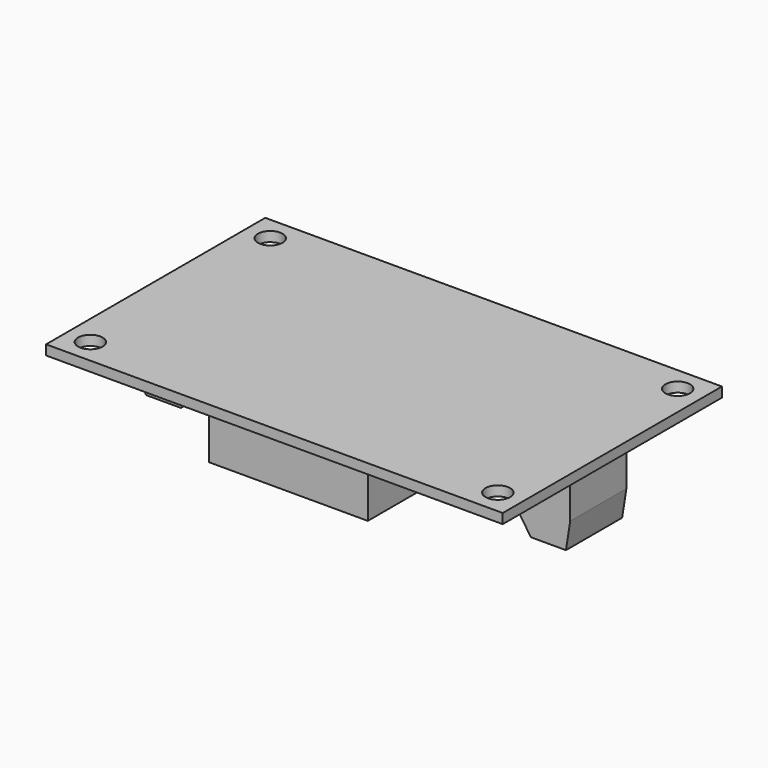
from build123d import *

# Parameters (mm, degrees)
SKETCH_W                = 65
SKETCH_H                = 39
PAD_DEPTH               = 1.4
SKETCH001_R             = 1.75
POCKET_DEPTH            = 153.031604
SKETCH001_MIRRORED_2_R  = 1.75
POCKET_MIRRORED_2_DEPTH = 153.031604
SKETCH002_W             = 7.6
SKETCH002_H             = 10
PAD001_DEPTH            = 10
POCKET001_DEPTH         = 5
SKETCH004_W             = 22.6
SKETCH004_H             = 14
PAD002_DEPTH            = 7.5
SKETCH005_R             = 4
PAD003_DEPTH            = 10
SKETCH006_W             = 12
SKETCH006_H             = 12
PAD004_DEPTH            = 7.5
SKETCH007_W             = 9.5
SKETCH007_H             = 4.4
PAD005_DEPTH            = 10
SKETCH008_W             = 10
SKETCH008_H             = 8.4
PAD006_DEPTH            = 4


with BuildPart() as part:
    # Sketch → Pad (new body)
    with BuildSketch(Plane.XY):
        Rectangle(SKETCH_W, SKETCH_H)
    extrude(amount=PAD_DEPTH)

    # Sketch001 → Pocket (cut, through all)
    with BuildSketch(Plane.XY):
        with Locations((29, 16)):
            Circle(SKETCH001_R)
    pocket = extrude(amount=POCKET_DEPTH, mode=Mode.SUBTRACT)

    # Sketch001 Mirrored 2 → Pocket Mirrored 2 (cut, through all)
    with BuildSketch(Plane(origin=(0, 0, 0), x_dir=(-1, 0, 0), z_dir=(0, 0, -1))):
        with Locations((29, 16)):
            Circle(SKETCH001_MIRRORED_2_R)
    pocket_mirrored_2 = extrude(amount=-POCKET_MIRRORED_2_DEPTH, mode=Mode.SUBTRACT)

    # Mirrored001: Pocket, Pocket Mirrored 2 across Sketch001 H_Axis
    add(pocket.mirror(Plane.ZX), mode=Mode.SUBTRACT)
    add(pocket_mirrored_2.mirror(Plane.ZX), mode=Mode.SUBTRACT)

    # Sketch002 → Pad001 (join)
    with BuildSketch(Plane(origin=(0, 0, 0), x_dir=(-1, 0, 0), z_dir=(0, 0, -1))):
        with Locations((-26.7, 0)):
            Rectangle(SKETCH002_W, SKETCH002_H)
    pad001 = extrude(amount=PAD001_DEPTH)

    # Sketch003 → Pocket001 (cut, symmetric)
    with BuildSketch(Plane.XZ):
        Polygon((22.9, -7), (24.9, -10), (22.9, -10), align=None)
        Polygon((29.9, -10), (30.5, -6.159395), (30.5, -10), align=None)
    pocket001 = extrude(amount=POCKET001_DEPTH, both=True, mode=Mode.SUBTRACT)

    # Sketch004 → Pad002 (join)
    with BuildSketch(Plane(origin=(0, 0, 0), x_dir=(-1, 0, 0), z_dir=(0, 0, -1))):
        with Locations((0, -10)):
            Rectangle(SKETCH004_W, SKETCH004_H)
    extrude(amount=PAD002_DEPTH)

    # Sketch005 → Pad003 (join)
    with BuildSketch(Plane(origin=(0, 0, 0), x_dir=(-1, 0, 0), z_dir=(0, 0, -1))):
        with Locations((-20, 11.5)):
            Circle(SKETCH005_R)
    pad003 = extrude(amount=PAD003_DEPTH)

    # Mirrored002: Pad001, Pocket001, Pad003 across Sketch002 V_Axis
    add(pad001.mirror(Plane(origin=(0, 0, 0), x_dir=(0, 0, -1), z_dir=(-1, 0, 0))))
    add(pocket001.mirror(Plane(origin=(0, 0, 0), x_dir=(0, 0, -1), z_dir=(-1, 0, 0))), mode=Mode.SUBTRACT)
    add(pad003.mirror(Plane(origin=(0, 0, 0), x_dir=(0, 0, -1), z_dir=(-1, 0, 0))))

    # Sketch006 → Pad004 (join)
    with BuildSketch(Plane(origin=(0, 0, 0), x_dir=(-1, 0, 0), z_dir=(0, 0, -1))):
        with Locations((7.5, 5)):
            Rectangle(SKETCH006_W, SKETCH006_H)
    extrude(amount=PAD004_DEPTH)

    # Sketch007 → Pad005 (join)
    with BuildSketch(Plane(origin=(0, 0, 0), x_dir=(-1, 0, 0), z_dir=(0, 0, -1))):
        with Locations((8.75, 15.3)):
            Rectangle(SKETCH007_W, SKETCH007_H)
    extrude(amount=PAD005_DEPTH)

    # Sketch008 → Pad006 (join)
    with BuildSketch(Plane(origin=(0, 0, 0), x_dir=(-1, 0, 0), z_dir=(0, 0, -1))):
        with Locations((-6.5, 11.3)):
            Rectangle(SKETCH008_W, SKETCH008_H)
    extrude(amount=PAD006_DEPTH)


solid = part.part
